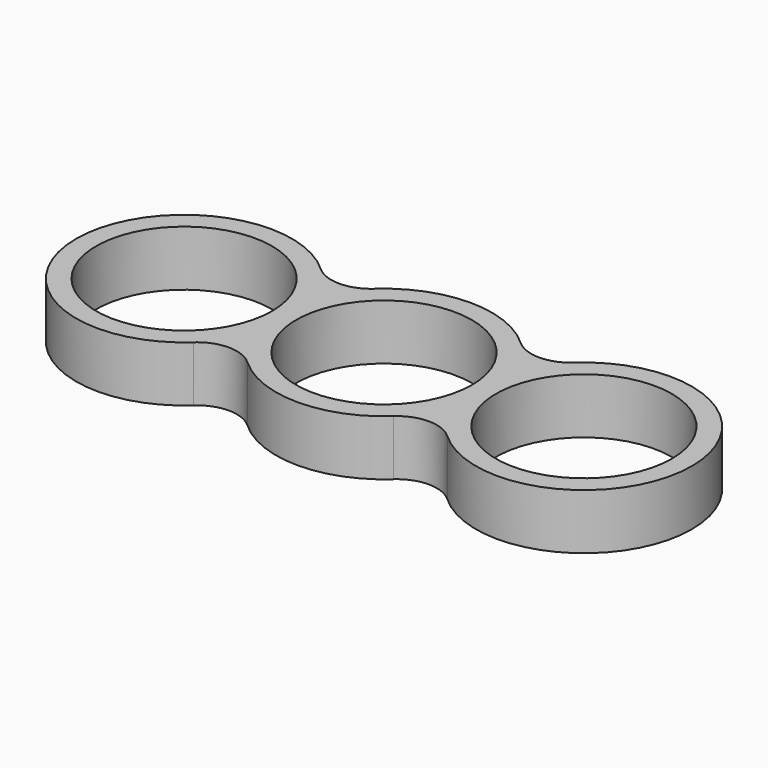
from build123d import *

# Parameters (mm, degrees)
F0_R     = 11
F1_DEPTH = 6.95
F2_R     = 5


with BuildPart() as f1:
    # F0 (on Top) → F1 (new body)
    with BuildSketch(Plane.XY):
        with BuildLine():
            ThreePointArc((12.5, -5.09902), (38.5, 0), (12.5, 5.09902))
            ThreePointArc((12.5, 5.09902), (0, 13.5), (-12.5, 5.09902))
            ThreePointArc((-12.5, 5.09902), (-38.5, 0), (-12.5, -5.09902))
            ThreePointArc((-12.5, -5.09902), (0, -13.5), (12.5, -5.09902))
        make_face()
        with Locations((-25, 0)):
            Circle(F0_R, mode=Mode.SUBTRACT)
        Circle(F0_R, mode=Mode.SUBTRACT)
        with Locations((25, 0)):
            Circle(F0_R, mode=Mode.SUBTRACT)
    extrude(amount=F1_DEPTH)

    # F2
    f2_edges = [f1.edges().sort_by_distance(p)[0] for p in [
        (-12.5, -5.09902, 3.475),
        (12.5, -5.09902, 3.475),
        (12.5, 5.09902, 3.475),
        (-12.5, 5.09902, 3.475),
    ]]
    fillet(f2_edges, radius=F2_R)


solid = f1.part
